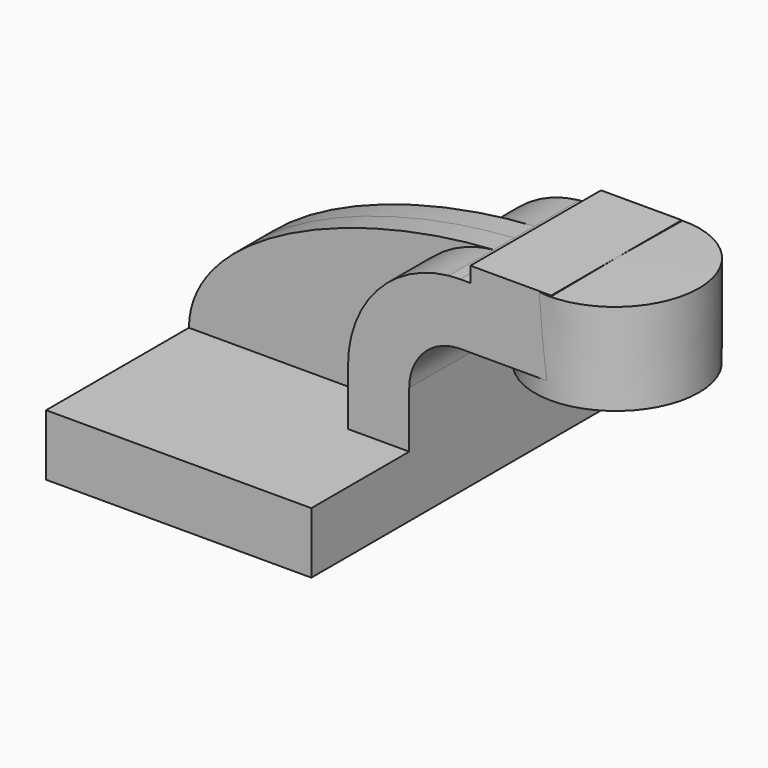
from build123d import *

# Parameters (mm, degrees)
F1_DEPTH = 63.5
F2_DEPTH = 25.4
F3_DEPTH = 7.9375


with BuildPart() as f1:
    # F0 (on Front) → F1 (new body, symmetric)
    with BuildSketch(Plane.XZ):
        Polygon((22.225, 9.525), (-41.275, 9.525), (-41.275, -9.525), (41.275, -9.525), (41.275, 9.525), align=None)
    extrude(amount=F1_DEPTH, both=True)

    # F0 (on Front) → F2 (join, symmetric)
    with BuildSketch(Plane.XZ):
        with BuildLine():
            Line((22.225, 27.0002), (22.225, 9.525))
            Line((22.225, 9.525), (41.275, 9.525))
            Line((41.275, 9.525), (41.275, 27.0002))
            ThreePointArc((41.275, 27.0002), (45.9246798487, 38.2255201513), (57.15, 42.8752))
            Line((57.15, 42.8752), (60.325, 42.8752))
            Line((60.325, 42.8752), (60.325, 61.9252))
            Line((60.325, 61.9252), (57.15, 61.9252))
            add(Edge.make_bspline(
                [(53.6016861152, 61.7444814514), (54.7864461989, 61.817216834), (55.9695068539, 61.8775273392), (57.15, 61.9252)],
                knots=[108.7054668937, 108.7054668937, 108.7054668937, 108.7054668937, 111.5045361635, 111.5045361635, 111.5045361635, 111.5045361635], degree=3))
            ThreePointArc((53.6016861152, 61.7444814514), (31.2301187558, 50.4077923855), (22.225, 27.0002))
        make_face()
        Polygon((60.325, 66.675), (60.325, 61.9252), (60.325, 42.8752), (85.6790583176, 42.8752), (85.4500830173, 66.675), align=None)
    extrude(amount=F2_DEPTH, both=True)

    # F0 (on Front) → F3 (join, symmetric)
    with BuildSketch(Plane.XZ):
        with BuildLine():
            add(Edge.make_bspline(
                [(-41.275, 9.525), (-40.9848631129, 37.3550228275), (7.5899995014, 58.9197090153), (53.6016861152, 61.7444814514)],
                knots=[0, 0, 0, 0, 108.7054668937, 108.7054668937, 108.7054668937, 108.7054668937], degree=3))
            Line((-41.275, 9.525), (22.225, 9.525))
            Line((22.225, 9.525), (22.225, 27.0002))
            ThreePointArc((22.225, 27.0002), (31.2301187558, 50.4077923855), (53.6016861152, 61.7444814514))
        make_face()
    extrude(amount=F3_DEPTH, both=True)

    # F0 (on Front) → F4 (revolve)
    with BuildSketch(Plane.XZ):
        Polygon((85.4500830173, 66.675), (85.6790583176, 42.8752), (85.725, 38.1), (111.125, 38.1), (111.125, 66.675), align=None)
    revolve(axis=Axis((85.5875415087, 0, 52.3875), (-0.0096204465, 0, 0.9999537224)))


solid = f1.part
